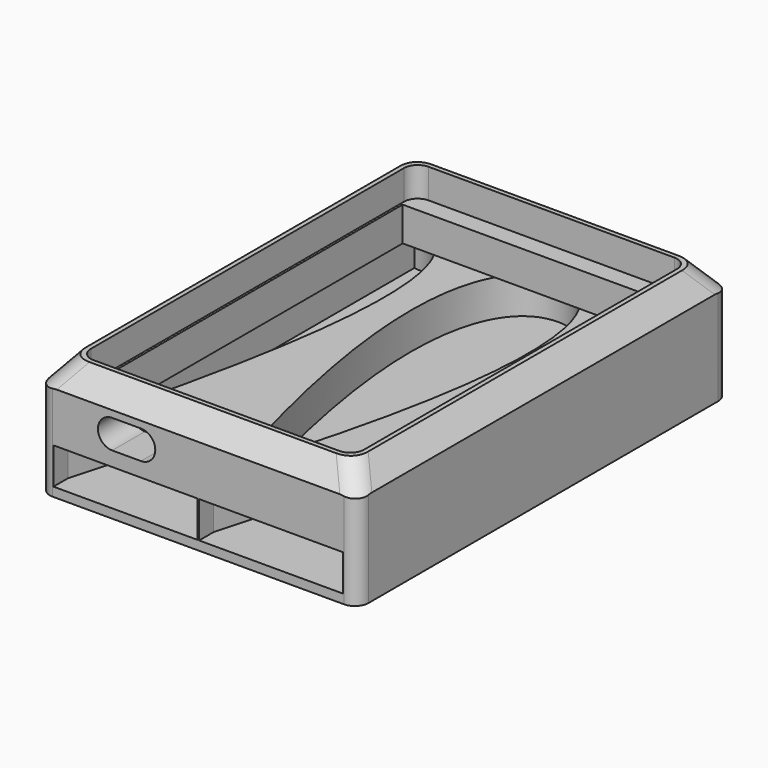
from build123d import *

# Parameters (mm, degrees)
SKETCH016_W        = 70
SKETCH016_H        = 102
PAD007_DEPTH       = 26
SKETCH017_W        = 60
SKETCH017_H        = 92
POCKET011_DEPTH    = 6.5
FILLET010_R        = 3
SKETCH018_W        = 59
SKETCH018_H        = 84
POCKET012_DEPTH    = 7.5
POCKET013_DEPTH    = 9
POCKET014_DEPTH    = 8
POCKET015_DEPTH    = 8
CHAMFER007_SIZE2   = 5
CHAMFER007_SIZE    = 4
FILLET011_R        = 5
FILLET012_R        = 3
POCKET015_FACE20_W = 2
POCKET015_FACE20_H = 8
POCKET016_DEPTH    = 0.356442
FILLET013_R        = 3.5


with BuildPart() as part:
    # Sketch016 → Pad007 (new body)
    with BuildSketch(Plane.XY):
        Rectangle(SKETCH016_W, SKETCH016_H)
    extrude(amount=PAD007_DEPTH)

    # Sketch017 (on Face6 of Pad007) → Pocket011 (cut)
    with BuildSketch(Plane.XY.offset(26)):
        Rectangle(SKETCH017_W, SKETCH017_H)
    extrude(amount=-POCKET011_DEPTH, mode=Mode.SUBTRACT)

    # Fillet010
    fillet010_edges = [part.edges().sort_by_distance(p)[0] for p in [
        (30, 46, 22.75),
        (-30, 46, 22.75),
        (-30, -46, 22.75),
        (30, -46, 22.75),
    ]]
    fillet(fillet010_edges, radius=FILLET010_R)

    # Sketch018 (on Face11 of Pocket011) → Pocket012 (cut)
    with BuildSketch(Plane.XY.offset(19.5)):
        Rectangle(SKETCH018_W, SKETCH018_H)
    extrude(amount=-POCKET012_DEPTH, mode=Mode.SUBTRACT)

    # Sketch019 (on Face13 of Pocket012) → Pocket013 (cut)
    with BuildSketch(Plane.XZ.offset(51)):
        with BuildLine():
            ThreePointArc((-18.9, 19.5), (-22.05, 16.35), (-18.9, 13.2))
            Line((-18.9, 13.2), (-12.6, 13.2))
            ThreePointArc((-12.6, 13.2), (-9.45, 16.35), (-12.6, 19.5))
            Line((-12.6, 19.5), (-18.9, 19.5))
        make_face()
    extrude(amount=-POCKET013_DEPTH, mode=Mode.SUBTRACT)

    # Sketch020 (on DatumPlane) → Pocket014 (cut)
    with BuildSketch(Plane(origin=(0, 0, 2), x_dir=(1, 0, 0), z_dir=(0, 0, -1))):
        with BuildLine():
            Line((-31.821779, 47), (-31.821779, 51))
            Line((-31.821779, 51), (-0.178221, 51))
            Line((-0.178221, 51), (-0.178221, 47))
            add(Edge.make_bspline(
                [(-0.178221, 47), (-27, -46.775214), (-0.178221, -49)],
                knots=[0, 0, 0, 1, 1, 1], degree=2))
            Line((-0.178221, -49), (-0.178221, -51))
            Line((-0.178221, -51), (-31.821779, -51))
            Line((-31.821779, -51), (-31.821779, -49))
            add(Edge.make_bspline(
                [(-31.821779, 47), (-5, -46.775214), (-31.821779, -49)],
                knots=[0, 0, 0, 1, 1, 1], degree=2))
        make_face()
        with BuildLine():
            Line((31.821779, 47), (31.821779, 51))
            Line((31.821779, 51), (0.178221, 51))
            Line((0.178221, 51), (0.178221, 47))
            add(Edge.make_bspline(
                [(0.178221, 47), (27, -46.775214), (0.178221, -49)],
                knots=[0, 0, 0, 1, 1, 1], degree=2))
            Line((0.178221, -49), (0.178221, -51))
            Line((0.178221, -51), (31.821779, -51))
            Line((31.821779, -51), (31.821779, -49))
            add(Edge.make_bspline(
                [(31.821779, 47), (5, -46.775214), (31.821779, -49)],
                knots=[0, 0, 0, 1, 1, 1], degree=2))
        make_face()
    extrude(amount=-POCKET014_DEPTH, mode=Mode.SUBTRACT)

    # Sketch021 (on DatumPlane) → Pocket015 (cut)
    with BuildSketch(Plane.XY.offset(12)):
        with BuildLine():
            add(Edge.make_bspline(
                [(0, -41.6971), (-22.282957, 30.899597), (0, 64.842011), (22.282957, 30.899597), (0, -41.6971)],
                knots=[0, 0, 0, 0, 0.5, 1, 1, 1, 1], degree=3))
        make_face()
        with BuildLine():
            Line((-31.821779, 48.104515), (-31.821779, -45.461681))
            add(Edge.make_bspline(
                [(-31.821779, 48.104515), (-7.061375, 47.212971), (-31.821779, -45.461681)],
                knots=[0, 0, 0, 1, 1, 1], degree=2))
        make_face()
    extrude(amount=-POCKET015_DEPTH, mode=Mode.SUBTRACT)

    # Chamfer007
    chamfer007_edges = [part.edges().sort_by_distance(p)[0] for p in [
        (0, 51, 26),
        (-35, 0, 26),
        (35, 0, 26),
        (0, -51, 26),
    ]]
    chamfer007_side = part.faces().sort_by_distance((-31.237093, 0, 26))[0]
    chamfer(chamfer007_edges, length=CHAMFER007_SIZE, length2=CHAMFER007_SIZE2, reference=chamfer007_side)

    # Fillet011
    fillet011_edges = [part.edges().sort_by_distance(p)[0] for p in [
        (-33, -49, 23.5),
        (-33, 49, 23.5),
        (33, -49, 23.5),
        (33, 49, 23.5),
    ]]
    fillet(fillet011_edges, radius=FILLET011_R)

    # Fillet012
    fillet012_edges = [part.edges().sort_by_distance(p)[0] for p in [
        (35, 51, 9.834634),
        (-35, 51, 9.834634),
        (-35, -51, 9.834634),
        (35, -51, 9.834634),
    ]]
    fillet(fillet012_edges, radius=FILLET012_R)

    # Pocket015 Face20 → Pocket016 (cut)
    with BuildSketch(Plane(origin=(-0.178221, 50, 6), x_dir=(0, 1, 0), z_dir=(-1, 0, 0))):
        Rectangle(POCKET015_FACE20_W, POCKET015_FACE20_H)
    extrude(amount=-POCKET016_DEPTH, mode=Mode.SUBTRACT)

    # Fillet013
    fillet013_edges = [part.edges().sort_by_distance(p)[0] for p in [
        (-31.821779, 50, 10),
        (31.821779, 50, 10),
        (-31.821779, 50, 2),
        (31.821779, 50, 2),
    ]]
    fillet(fillet013_edges, radius=FILLET013_R)


solid = part.part
